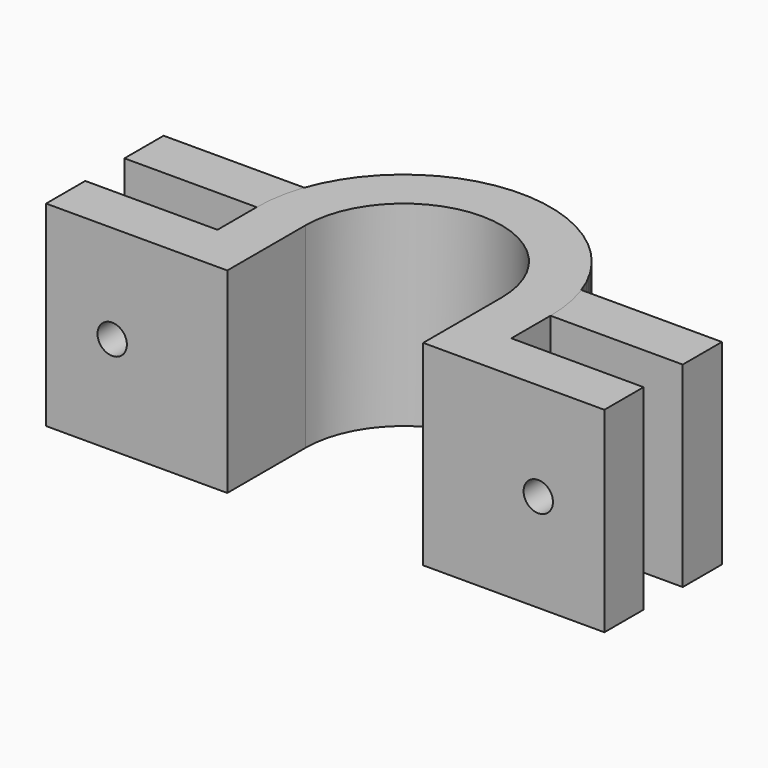
from build123d import *

# Parameters (mm, degrees)
PAD_DEPTH       = 20
SKETCH001_R     = 1.5
POCKET_DEPTH    = 5.001
PAD001_DEPTH    = 20
SKETCH004_R     = 1.5
POCKET001_DEPTH = 5.001


with BuildPart() as body:
    # Sketch → Pad (new body)
    with BuildSketch(Plane.XY):
        with BuildLine():
            Line((28.5, 0), (10, 0))
            ThreePointArc((10, 0), (0, 10), (-10, 0))
            Line((-28.5, 0), (-10, 0))
            Line((-28.5, 0), (-28.5, 5))
            Line((-28.5, 5), (-14.142136, 5))
            ThreePointArc((14.142136, 5), (0, 15), (-14.142136, 5))
            Line((28.5, 5), (14.142136, 5))
            Line((28.5, 0), (28.5, 5))
        make_face()
    extrude(amount=PAD_DEPTH)

    # Sketch001 (on Face7 of Pad) → Pocket (cut, through all)
    with BuildSketch(Plane(origin=(0, 5, 0), x_dir=(-1, 0, 0), z_dir=(0, 1, 0))):
        with Locations((-21.321068, 10)):
            Circle(SKETCH001_R)
        with Locations((21.321068, 10)):
            Circle(SKETCH001_R)
    extrude(amount=-POCKET_DEPTH, mode=Mode.SUBTRACT)


with BuildPart() as body001:
    # Sketch002 → Pad001 (new body)
    with BuildSketch(Plane.XY):
        with BuildLine():
            ThreePointArc((15, 0), (0, 15), (-15, 0))
            Line((-15, -5), (-15, 0))
            Line((-28.5, -5), (-15, -5))
            Line((-28.5, -10), (-28.5, -5))
            Line((-28.5, -10), (-10, -10))
            Line((-10, 0), (-10, -10))
            ThreePointArc((10, 0), (0, 10), (-10, 0))
            Line((10, 0), (10, -10))
            Line((28.5, -10), (10, -10))
            Line((28.5, -5), (28.5, -10))
            Line((15, -5), (28.5, -5))
            Line((15, 0), (15, -5))
        make_face()
    extrude(amount=PAD001_DEPTH)

    # Sketch004 (on Face11 of Pad001) → Pocket001 (cut, through all)
    with BuildSketch(Plane(origin=(0, -5, 0), x_dir=(-1, 0, 0), z_dir=(0, 1, 0))):
        with Locations((-21.75, 10)):
            Circle(SKETCH004_R)
        with Locations((21.75, 10)):
            Circle(SKETCH004_R)
    extrude(amount=-POCKET001_DEPTH, mode=Mode.SUBTRACT)


solid = Compound([body.part, body001.part])
